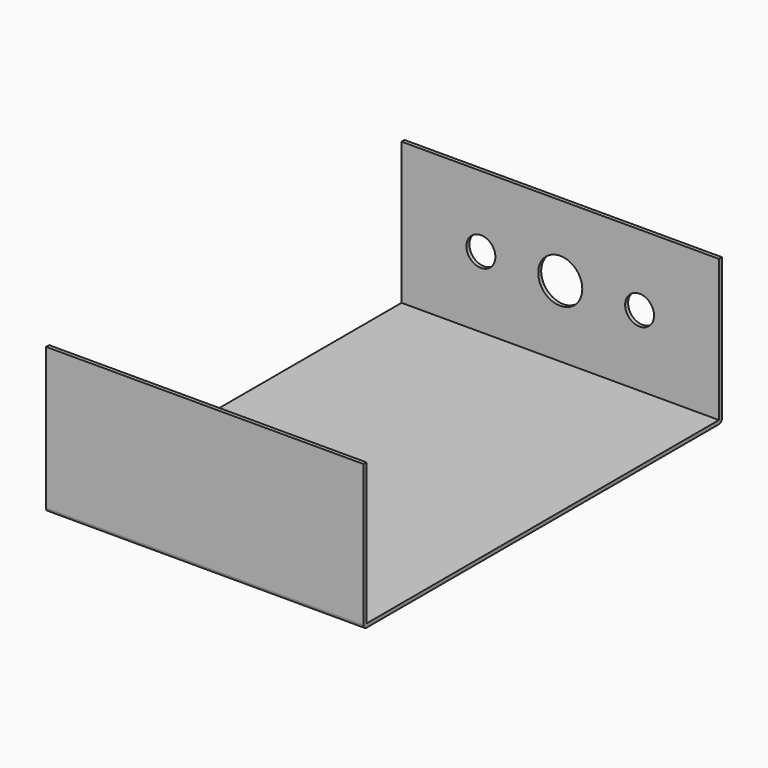
from build123d import *

# Parameters (mm, degrees)
SKETCH002_W             = 85
SKETCH002_H             = 118
PAD001_DEPTH            = 38
THICKNESS001_T          = 1
SKETCH008_R             = 3.875
SKETCH008_R_2           = 5.9
POCKET_DEPTH            = 5
BODY001_PLACEMENT_ANGLE = 180


with BuildPart() as part:
    # Sketch002 → Pad001 (new body)
    with BuildSketch(Plane.XY):
        with Locations((42.5, 59)):
            Rectangle(SKETCH002_W, SKETCH002_H)
    extrude(amount=PAD001_DEPTH)

    # Thickness001
    thickness001_openings = [part.faces().sort_by_distance(p)[0] for p in [
        (85, 59, 19),
        (42.5, 59, 0),
        (0, 59, 19),
    ]]
    offset(amount=THICKNESS001_T, openings=thickness001_openings)

    # Sketch008 (on Face10 of Thickness001) → Pocket (cut)
    with BuildSketch(Plane.XZ.offset(1)):
        with Locations((63.75, 19)):
            Circle(SKETCH008_R)
        with Locations((21.25, 19)):
            Circle(SKETCH008_R)
        with Locations((42.5, 19)):
            Circle(SKETCH008_R_2)
    extrude(amount=-POCKET_DEPTH, mode=Mode.SUBTRACT)


with BuildPart() as part_1:
    # Body001 placement: moved
    add(part.part.moved(Location((0, 120, 0))).rotate(Axis((0, 120, 0), (1, 0, 0)), BODY001_PLACEMENT_ANGLE))


solid = part_1.part
